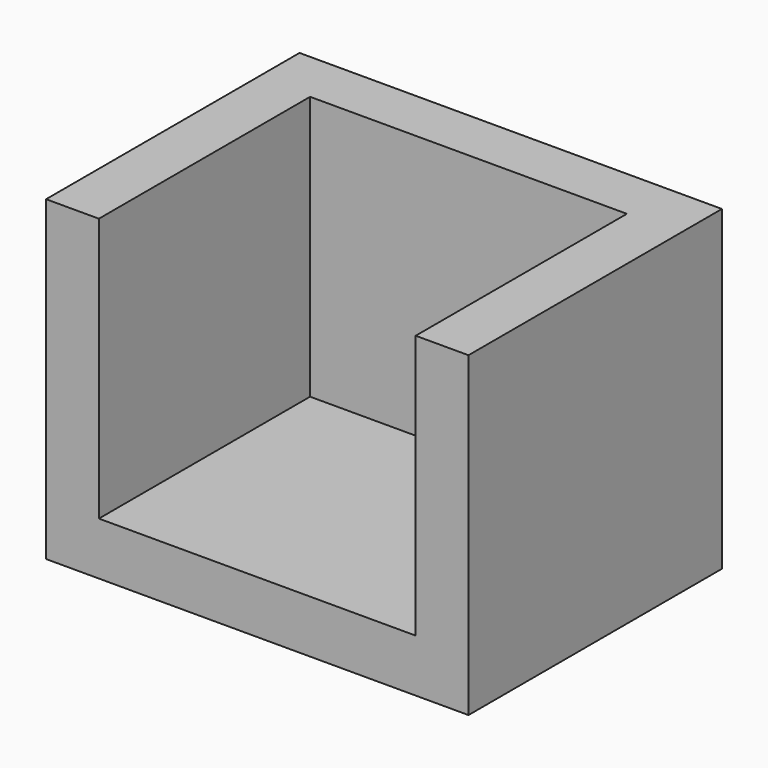
from build123d import *

# Parameters (mm, degrees)
F0_W          = 101.6
F0_H          = 76.2
F1_DEPTH      = 50.8
F1_DEPTH_BACK = 50.8
F2_T          = -12.7
F1_FACE_W     = 101.6
F1_FACE_H     = 76.2
F3_DEPTH      = 25.4


with BuildPart() as f1:
    # F0 (on Front) → F1 (new body, two sides)
    with BuildSketch(Plane.XZ) as f1_sk:
        Rectangle(F0_W, F0_H)
    extrude(amount=F1_DEPTH)
    extrude(f1_sk.sketch, amount=-F1_DEPTH_BACK)

    # F2
    f2_openings = [f1.faces().sort_by_distance(p)[0] for p in [
        (0, 0, 38.1),
    ]]
    offset(amount=F2_T, openings=f2_openings)

    # F1_face (on face) → F3 (cut)
    with BuildSketch(Plane.XZ.offset(50.8)):
        Rectangle(F1_FACE_W, F1_FACE_H)
    extrude(amount=-F3_DEPTH, mode=Mode.SUBTRACT)


solid = f1.part
